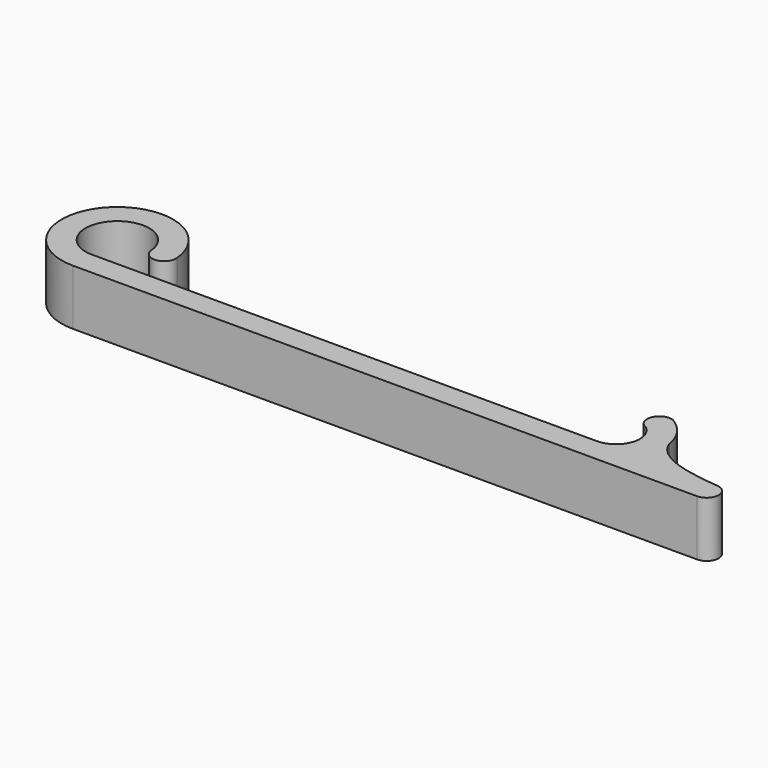
from build123d import *

# Parameters (mm, degrees)
F1_DEPTH = 7


with BuildPart() as f1:
    # F0 (on Top) → F1 (new body)
    with BuildSketch(Plane.XY):
        with BuildLine():
            Line((31.75, 0), (-31.75, 0))
            ThreePointArc((-31.75, 0), (-34.704196, 6.696799), (-27.766563, 4.363636))
            ThreePointArc((-27.766563, 4.363636), (-26.136411, 3.006211), (-24.778986, 4.636364))
            ThreePointArc((-24.778986, 4.636364), (-36.919843, 8.719399), (-31.75, -3))
            Line((-31.75, -3), (31.75, -3))
            ThreePointArc((31.75, -3), (36.335039, -0.870066), (37.664802, 4.007528))
            ThreePointArc((37.664802, 4.007528), (36.670299, 6.433753), (34.736073, 8.204168))
            ThreePointArc((34.736073, 8.204168), (32.7542, 7.280006), (33.678363, 5.298133))
            ThreePointArc((33.678363, 5.298133), (34.569078, 1.97394), (31.75, 0))
        make_face()
        with BuildLine():
            add(Edge.make_bspline(
                [(37.664802, 4.007528), (38.646857, 0.955298), (43.6282, 0.290702), (46.75, -0.003234)],
                knots=[0.170737, 0.170737, 0.170737, 0.170737, 10.040086, 10.040086, 10.040086, 10.040086], degree=3))
            ThreePointArc((37.664802, 4.007528), (36.335039, -0.870066), (31.75, -3))
            Line((31.75, -3), (46.75, -3))
            ThreePointArc((46.75, -3), (48.248383, -1.501617), (46.75, -0.003234))
        make_face()
    extrude(amount=F1_DEPTH)


solid = f1.part
